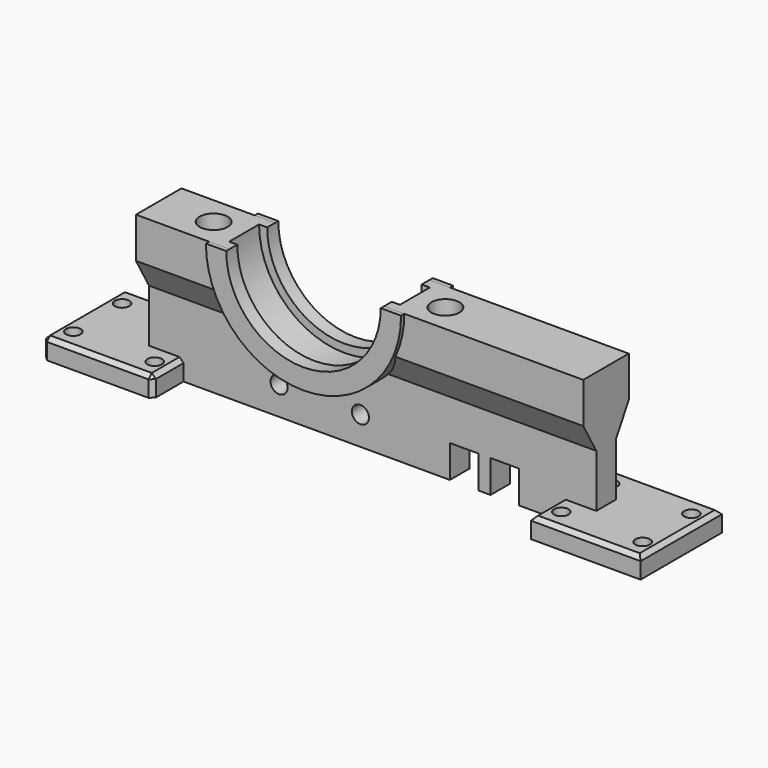
from build123d import *

# Parameters (mm, degrees)
PAD_DEPTH            = 110
SKETCH002_R          = 3.45
POCKET001_DEPTH      = 11
SKETCH004_R          = 2.1
POCKET003_DEPTH      = 7.001
POCKET003_DEPTH_BACK = 7.001
SKETCH005_W          = 7
SKETCH005_H          = 8
POCKET004_DEPTH      = 7.001
POCKET004_DEPTH_BACK = 7.001
PAD001_DEPTH         = 8
SKETCH003_R          = 19
POCKET_DEPTH         = 9
SKETCH001_R          = 21
POCKET005_DEPTH      = 4.6
SKETCH007_W          = 27
SKETCH007_H          = 25
SKETCH007_R          = 1.8
PAD002_DEPTH         = 5
LINEARPATTERN_COUNT  = 2
LINEARPATTERN_PITCH  = 120
CHAMFER002_SIZE      = 1
CHAMFER003_SIZE      = 1


with BuildPart() as part:
    # Sketch → Pad (new body)
    with BuildSketch(Plane.YZ.offset(-42)):
        Polygon((-7, 0), (7, 0), (7, -10), (3, -17), (3, -35), (-3, -35), (-3, -17), (-7, -10), align=None)
    extrude(amount=PAD_DEPTH)

    # Sketch002 → Pocket001 (cut)
    with BuildSketch(Plane.XY):
        with Locations((-28.5, 0)):
            Circle(SKETCH002_R)
        with Locations((28.5, 0)):
            Circle(SKETCH002_R)
    extrude(amount=-POCKET001_DEPTH, mode=Mode.SUBTRACT)

    # Sketch004 → Pocket003 (cut, two sides)
    with BuildSketch(Plane.XZ) as pocket003_sk:
        with Locations((-10, -28)):
            Circle(SKETCH004_R)
        with Locations((10, -28)):
            Circle(SKETCH004_R)
    extrude(amount=-POCKET003_DEPTH, mode=Mode.SUBTRACT)
    extrude(pocket003_sk.sketch, amount=POCKET003_DEPTH_BACK, mode=Mode.SUBTRACT)

    # Sketch005 → Pocket004 (cut, two sides)
    with BuildSketch(Plane.XZ) as pocket004_sk:
        with Locations((35.5, -31)):
            Rectangle(SKETCH005_W, SKETCH005_H)
        with Locations((45.5, -31)):
            Rectangle(SKETCH005_W, SKETCH005_H)
    extrude(amount=-POCKET004_DEPTH, mode=Mode.SUBTRACT)
    extrude(pocket004_sk.sketch, amount=POCKET004_DEPTH_BACK, mode=Mode.SUBTRACT)

    # Sketch006 → Pad001 (join, symmetric)
    with BuildSketch(Plane.XZ):
        with BuildLine():
            Line((-24, 0), (24, -5.7e-05))
            ThreePointArc((-24, 0), (-2.8e-05, -24), (24, -5.7e-05))
        make_face()
    extrude(amount=PAD001_DEPTH, both=True)

    # Sketch003 → Pocket (cut, symmetric)
    with BuildSketch(Plane.XZ):
        Circle(SKETCH003_R)
    extrude(amount=POCKET_DEPTH, both=True, mode=Mode.SUBTRACT)

    # Sketch001 → Pocket005 (cut, symmetric)
    with BuildSketch(Plane.XZ):
        Circle(SKETCH001_R)
    extrude(amount=POCKET005_DEPTH, both=True, mode=Mode.SUBTRACT)

    # Sketch007 → Pad002 (join)
    with BuildSketch(Plane(origin=(-123, -11.5, -35), x_dir=(1, 0, 0), z_dir=(0, 0, 1))):
        with Locations((76, 11.5)):
            Rectangle(SKETCH007_W, SKETCH007_H)
        with Locations((66, 19)):
            Circle(SKETCH007_R, mode=Mode.SUBTRACT)
        with Locations((86, 19)):
            Circle(SKETCH007_R, mode=Mode.SUBTRACT)
        with Locations((86, 4)):
            Circle(SKETCH007_R, mode=Mode.SUBTRACT)
        with Locations((66, 4)):
            Circle(SKETCH007_R, mode=Mode.SUBTRACT)
    pad002 = extrude(amount=PAD002_DEPTH)

    # LinearPattern: Pad002 ×2
    with Locations(*[(i * LINEARPATTERN_PITCH, 0, 0) for i in range(1, LINEARPATTERN_COUNT)]):
        add(pad002)

    # Chamfer002
    chamfer002_edges = [part.edges().sort_by_distance(p)[0] for p in [
        (73, -12.5, -30),
        (73, 12.5, -30),
        (86.5, 0, -30),
        (59.5, -7.75, -30),
        (59.5, 7.75, -30),
    ]]
    chamfer(chamfer002_edges, length=CHAMFER002_SIZE)

    # Chamfer003
    chamfer003_edges = [part.edges().sort_by_distance(p)[0] for p in [
        (-47, -12.5, -30),
        (-33.5, -7.75, -30),
        (-60.5, 0, -30),
        (-47, 12.5, -30),
        (-60.5, -12.5, -32.5),
        (-33.5, -12.5, -32.5),
        (-60.5, 12.5, -32.5),
        (-33.5, 7.75, -30),
    ]]
    chamfer(chamfer003_edges, length=CHAMFER003_SIZE)


with BuildPart() as part_1:
    # Body001 placement: moved
    add(part.part.moved(Location((0, 100, 0))))


solid = part_1.part
